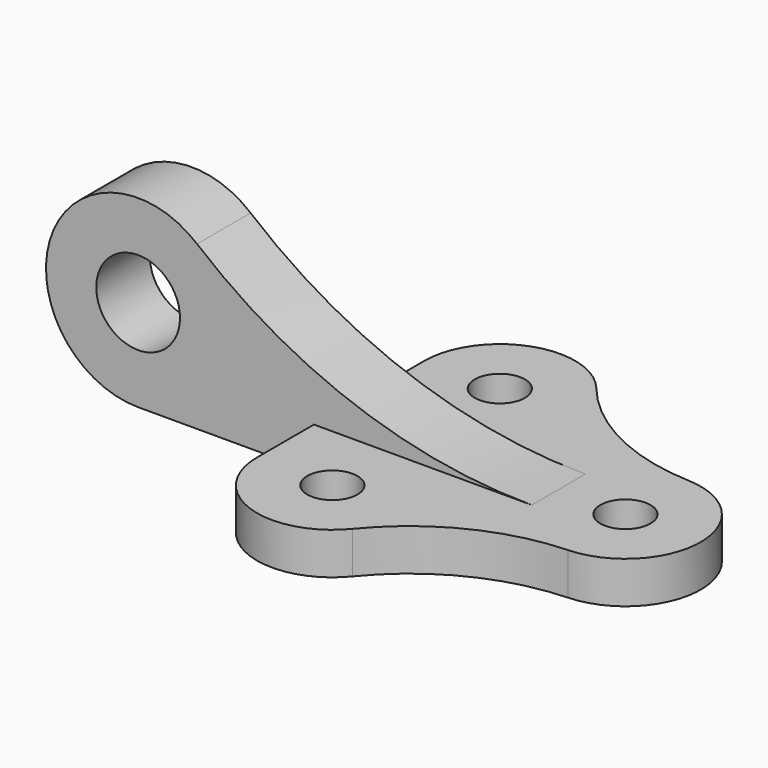
from build123d import *

# Parameters (mm, degrees)
F0_R     = 6
F1_DEPTH = 10
F2_R     = 10
F3_DEPTH = 8


with BuildPart() as f1:
    # F0 (on Top) → F1 (new body)
    with BuildSketch(Plane.XY):
        with BuildLine():
            ThreePointArc((50.720724, 17.985565), (30.362055, 23.224109), (13.956018, 36.367918))
            ThreePointArc((13.956018, 36.367918), (-6.032896, 41.958896), (-18, 25))
            Line((-18, 25), (-18, -25))
            ThreePointArc((-18, -25), (-6.032896, -41.958896), (13.956018, -36.367918))
            ThreePointArc((13.956018, -36.367918), (30.362055, -23.224109), (50.720724, -17.985565))
            ThreePointArc((50.720724, -17.985565), (68, 0), (50.720724, 17.985565))
        make_face()
        with Locations((0, -25)):
            Circle(F0_R, mode=Mode.SUBTRACT)
        with Locations((0, 25)):
            Circle(F0_R, mode=Mode.SUBTRACT)
        with Locations((50, 0)):
            Circle(F0_R, mode=Mode.SUBTRACT)
    extrude(amount=F1_DEPTH)

    # F2 (on Front) → F3 (join, symmetric)
    with BuildSketch(Plane.XZ):
        with BuildLine():
            ThreePointArc((34.021274, 10), (-8.487228, 17.449895), (-45.928789, 38.911565))
            ThreePointArc((-45.928789, 38.911565), (-80.688818, 29.481496), (-60, 0))
            Line((-60, 0), (0, 0))
            Line((0, 0), (34.021274, 0))
            Line((34.021274, 0), (34.021274, 10))
        make_face()
        with Locations((-60, 22)):
            Circle(F2_R, mode=Mode.SUBTRACT)
    extrude(amount=F3_DEPTH, both=True)


solid = f1.part
